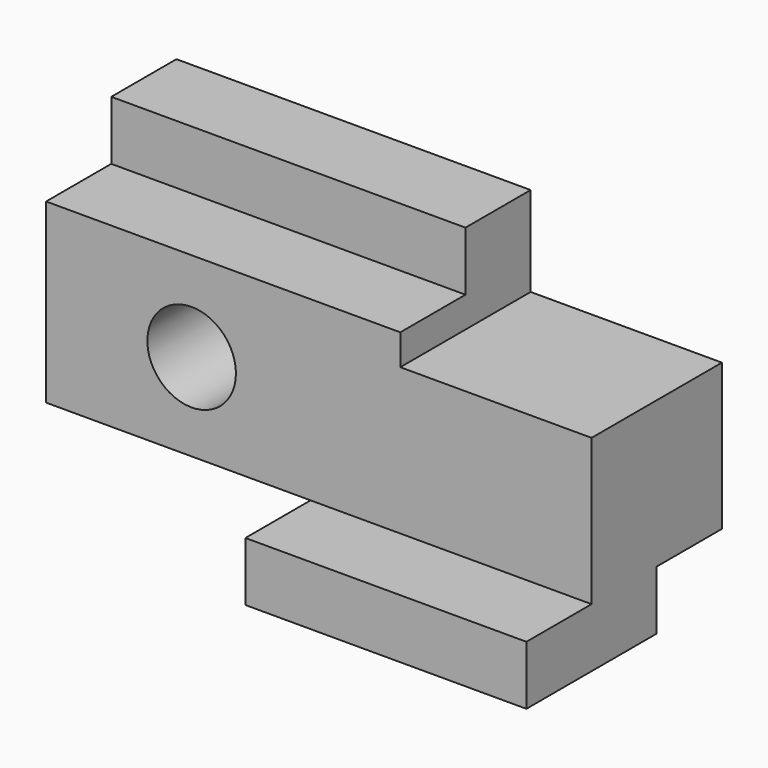
from build123d import *

# Parameters (mm, degrees)
F0_W      = 117.348
F0_H      = 50.8
F1_DEPTH  = 25.4
F3_DEPTH  = 9.652
F2_R      = 9.525
F4_DEPTH  = 35.053
F5_W      = 60.452
F5_H      = 35.052
F6_DEPTH  = 12.7
F7_W      = 76.2
F7_H      = 17.526
F8_DEPTH  = 12.7
F9_W      = 41.148
F9_H      = 35.052
F10_DEPTH = 19.304


with BuildPart() as f1:
    # F0 (on Front) → F1 (new body)
    with BuildSketch(Plane.XZ):
        with Locations((19.444794, -1.353553)):
            Rectangle(F0_W, F0_H)
    extrude(amount=F1_DEPTH)

    # F0 (on Front) → F3 (join)
    with BuildSketch(Plane.XZ):
        with Locations((19.444794, -1.353553)):
            Rectangle(F0_W, F0_H)
    extrude(amount=-F3_DEPTH)

    # F2 (on face) → F4 (cut, through all)
    with BuildSketch(Plane.XZ.offset(25.4)):
        with Locations((-7.913983, -7.957553)):
            Circle(F2_R)
    extrude(amount=-F4_DEPTH, mode=Mode.SUBTRACT)

    # F5 (on face) → F6 (join)
    with BuildSketch(Plane(origin=(0, 0, -26.753553), x_dir=(1, 0, 0), z_dir=(0, 0, -1))):
        with Locations((47.892794, 25.4)):
            Rectangle(F5_W, F5_H)
    extrude(amount=F6_DEPTH)

    # F7 (on face) → F8 (cut)
    with BuildSketch(Plane.XY.offset(24.046447)):
        with Locations((-1.129206, -16.637)):
            Rectangle(F7_W, F7_H)
    extrude(amount=-F8_DEPTH, mode=Mode.SUBTRACT)

    # F9 (on face) → F10 (cut)
    with BuildSketch(Plane.XY.offset(24.046447)):
        with Locations((57.544794, -7.874)):
            Rectangle(F9_W, F9_H)
    extrude(amount=-F10_DEPTH, mode=Mode.SUBTRACT)


solid = f1.part
